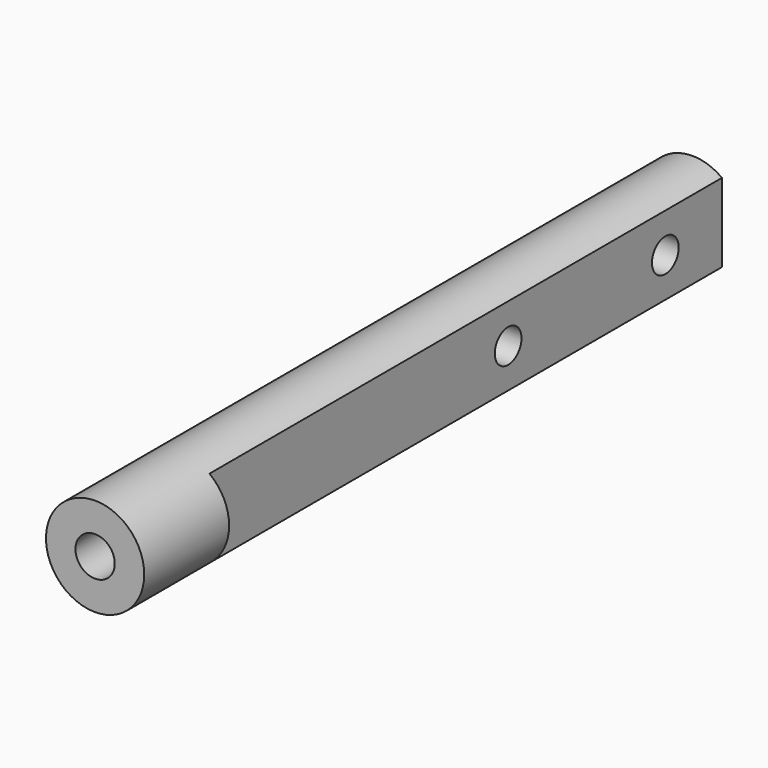
from build123d import *

# Parameters (mm, degrees)
F0_R          = 12.5
F1_DEPTH      = 190
F3_D          = 10
F3_DEPTH      = 26
F3_TIP        = 3.0043030951
F4_R          = 4.25
F5_DEPTH      = 25
F5_DEPTH_BACK = 25
F7_W          = 101
F7_H          = 25
F8_DEPTH      = 5
F10_W         = 163
F10_H         = 25
F11_DEPTH     = 5


with BuildPart() as f1:
    # F0 (on Front) → F1 (new body)
    with BuildSketch(Plane.XZ):
        Circle(F0_R)
    extrude(amount=F1_DEPTH)

    # F3
    with Locations(Plane.XZ.offset(190)):
        with Locations((0, 0)):
            Hole(F3_D / 2, depth=F3_DEPTH)
            with Locations((0, 0, -(F3_DEPTH + F3_TIP / 2))):  # 118° drill point
                Cone(0, F3_D / 2, F3_TIP, mode=Mode.SUBTRACT)

    # F4 (on Right) → F5 (cut, two sides)
    with BuildSketch(Plane.YZ) as f5_sk:
        with Locations((-18, 0)):
            Circle(F4_R)
        with Locations((-68, 0)):
            Circle(F4_R)
    extrude(amount=-F5_DEPTH, mode=Mode.SUBTRACT)
    extrude(f5_sk.sketch, amount=F5_DEPTH_BACK, mode=Mode.SUBTRACT)

    # F7 (on offset) → F8 (cut)
    with BuildSketch(Plane.YZ.offset(-12.5)):
        with Locations((-50.5, 0)):
            Rectangle(F7_W, F7_H)
    extrude(amount=F8_DEPTH, mode=Mode.SUBTRACT)

    # F10 (on offset) → F11 (cut)
    with BuildSketch(Plane.YZ.offset(12.5)):
        with Locations((-81.5, 0)):
            Rectangle(F10_W, F10_H)
    extrude(amount=-F11_DEPTH, mode=Mode.SUBTRACT)


solid = f1.part
